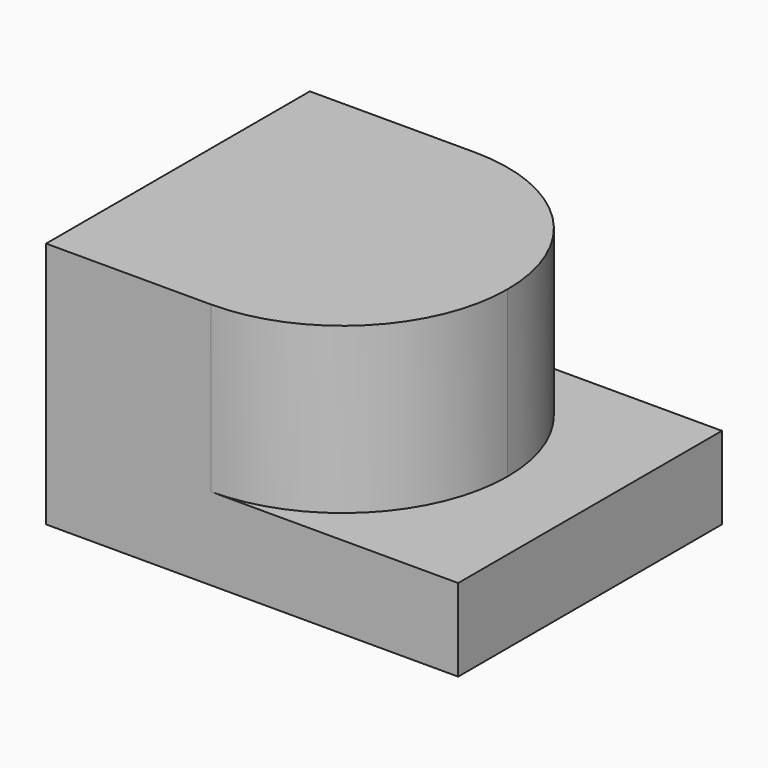
from build123d import *

# Parameters (mm, degrees)
F0_W     = 5
F0_H     = 4
F1_DEPTH = 1
F3_DEPTH = 2


with BuildPart() as f1:
    # F0 (on Top) → F1 (new body)
    with BuildSketch(Plane.XY):
        with Locations((10.844986, 12.139127)):
            Rectangle(F0_W, F0_H)
    extrude(amount=F1_DEPTH)

    # F2 (on face) → F3 (join)
    with BuildSketch(Plane.XY.offset(1)):
        with BuildLine():
            Line((10.344986, 14.139127), (8.344986, 14.139127))
            Line((8.344986, 14.139127), (8.344986, 12.139127))
            ThreePointArc((8.344986, 12.139127), (8.930772, 13.553341), (10.344986, 14.139127))
        make_face()
        with BuildLine():
            ThreePointArc((10.344986, 10.139127), (8.930772, 10.724914), (8.344986, 12.139127))
            Line((8.344986, 12.139127), (8.344986, 10.139127))
            Line((8.344986, 10.139127), (10.344986, 10.139127))
        make_face()
        with BuildLine():
            ThreePointArc((10.344986, 14.139127), (8.930772, 13.553341), (8.344986, 12.139127))
            ThreePointArc((8.344986, 12.139127), (8.930772, 10.724914), (10.344986, 10.139127))
            ThreePointArc((10.344986, 10.139127), (11.759199, 10.724914), (12.344986, 12.139127))
            ThreePointArc((12.344986, 12.139127), (11.759199, 13.553341), (10.344986, 14.139127))
        make_face()
    extrude(amount=F3_DEPTH)


solid = f1.part
